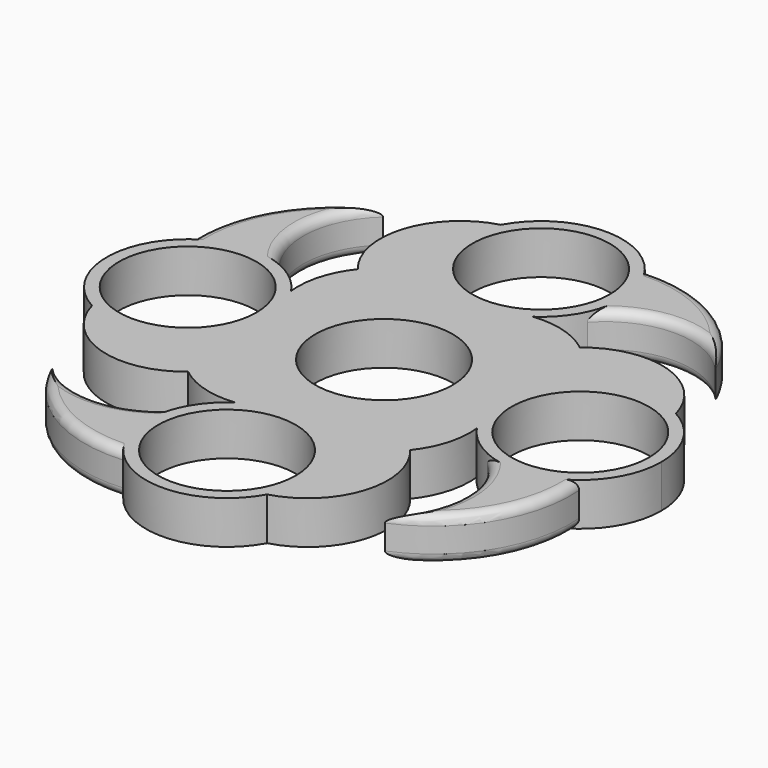
from build123d import *

# Parameters (mm, degrees)
F0_R     = 13.2
F0_R_2   = 11.2
F1_DEPTH = 7
F2_R     = 1.5


with BuildPart() as f1:
    # F0 (on Top) → F1 (new body)
    with BuildSketch(Plane.XY):
        with BuildLine():
            ThreePointArc((17.372666, 18.167843), (12.678437, 20.59346), (7.41467, 21.054055))
            ThreePointArc((7.41467, 21.054055), (-1.093616, 18.820181), (-9.11622, 22.428359))
            ThreePointArc((-9.11622, 22.428359), (-14.140854, 20.793596), (-18.167843, 17.372666))
            ThreePointArc((-18.167843, 17.372666), (-20.59346, 12.678437), (-21.054055, 7.41467))
            ThreePointArc((-21.054055, 7.41467), (-19.357474, 3.878541), (-18.7748, 0))
            ThreePointArc((-18.7748, 0), (-19.722188, -4.910549), (-22.428359, -9.11622))
            ThreePointArc((-22.428359, -9.11622), (-20.793596, -14.140854), (-17.372666, -18.167843))
            ThreePointArc((-17.372666, -18.167843), (-12.678437, -20.59346), (-7.41467, -21.054055))
            ThreePointArc((-7.41467, -21.054055), (1.093616, -18.820181), (9.11622, -22.428359))
            ThreePointArc((9.11622, -22.428359), (14.140854, -20.793596), (18.167843, -17.372666))
            ThreePointArc((18.167843, -17.372666), (20.59346, -12.678437), (21.054055, -7.41467))
            ThreePointArc((21.054055, -7.41467), (18.820181, 1.093616), (22.428359, 9.11622))
            ThreePointArc((22.428359, 9.11622), (20.793596, 14.140854), (17.372666, 18.167843))
        make_face()
        Circle(F0_R, mode=Mode.SUBTRACT)
        Circle(F0_R)
        Circle(F0_R_2, mode=Mode.SUBTRACT)
        with BuildLine():
            ThreePointArc((11.977401, 26.42666), (12.890727, 29.134175), (13.2, 31.9748))
            ThreePointArc((13.2, 31.9748), (12.479695, 36.275638), (10.397393, 40.107094))
            ThreePointArc((10.397393, 40.107094), (-1.087618, 45.129916), (-11.591787, 38.289107))
            ThreePointArc((-11.591787, 38.289107), (-13.042094, 29.939172), (-9.11622, 22.428359))
            ThreePointArc((-9.11622, 22.428359), (-1.093616, 18.820181), (7.41467, 21.054055))
            ThreePointArc((7.41467, 21.054055), (10.061279, 23.430172), (11.977401, 26.42666))
        make_face()
        with Locations((0, 31.9748)):
            Circle(F0_R_2, mode=Mode.SUBTRACT)
        with BuildLine():
            ThreePointArc((10.397393, 40.107094), (12.479695, 36.275638), (13.2, 31.9748))
            ThreePointArc((13.2, 31.9748), (12.890727, 29.134175), (11.977401, 26.42666))
            ThreePointArc((11.977401, 26.42666), (22.414109, 31.088755), (32.850817, 26.42666))
            ThreePointArc((32.850817, 26.42666), (23.834443, 36.894661), (10.397393, 40.107094))
        make_face()
        with BuildLine():
            ThreePointArc((-9.11622, 22.428359), (-13.042094, 29.939172), (-11.591787, 38.289107))
            ThreePointArc((-11.591787, 38.289107), (-20.576782, 29.621993), (-18.167843, 17.372666))
            ThreePointArc((-18.167843, 17.372666), (-14.140854, 20.793596), (-9.11622, 22.428359))
        make_face()
        with BuildLine():
            ThreePointArc((38.289107, 11.591787), (29.939172, 13.042094), (22.428359, 9.11622))
            ThreePointArc((22.428359, 9.11622), (18.820181, 1.093616), (21.054055, -7.41467))
            ThreePointArc((21.054055, -7.41467), (23.430172, -10.061279), (26.42666, -11.977401))
            ThreePointArc((26.42666, -11.977401), (33.489254, -13.112835), (40.107094, -10.397393))
            ThreePointArc((40.107094, -10.397393), (43.840429, -5.783326), (45.1748, 0))
            ThreePointArc((45.1748, 0), (43.323563, 6.741333), (38.289107, 11.591787))
        make_face()
        with Locations((31.9748, 0)):
            Circle(F0_R_2, mode=Mode.SUBTRACT)
        with BuildLine():
            ThreePointArc((38.289107, 11.591787), (29.621993, 20.576782), (17.372666, 18.167843))
            ThreePointArc((17.372666, 18.167843), (20.793596, 14.140854), (22.428359, 9.11622))
            ThreePointArc((22.428359, 9.11622), (29.939172, 13.042094), (38.289107, 11.591787))
        make_face()
        with BuildLine():
            ThreePointArc((40.107094, -10.397393), (33.489254, -13.112835), (26.42666, -11.977401))
            ThreePointArc((26.42666, -11.977401), (31.088755, -22.414109), (26.42666, -32.850817))
            ThreePointArc((26.42666, -32.850817), (36.894661, -23.834443), (40.107094, -10.397393))
        make_face()
        with BuildLine():
            ThreePointArc((11.591787, -38.289107), (20.576782, -29.621993), (18.167843, -17.372666))
            ThreePointArc((18.167843, -17.372666), (14.140854, -20.793596), (9.11622, -22.428359))
            ThreePointArc((9.11622, -22.428359), (12.136188, -26.783177), (13.2, -31.9748))
            ThreePointArc((13.2, -31.9748), (12.79163, -35.232745), (11.591787, -38.289107))
        make_face()
        with BuildLine():
            ThreePointArc((13.2, -31.9748), (12.136188, -26.783177), (9.11622, -22.428359))
            ThreePointArc((9.11622, -22.428359), (1.093616, -18.820181), (-7.41467, -21.054055))
            ThreePointArc((-7.41467, -21.054055), (-10.061279, -23.430172), (-11.977401, -26.42666))
            ThreePointArc((-11.977401, -26.42666), (-13.112835, -33.489254), (-10.397393, -40.107094))
            ThreePointArc((-10.397393, -40.107094), (1.087618, -45.129916), (11.591787, -38.289107))
            ThreePointArc((11.591787, -38.289107), (12.79163, -35.232745), (13.2, -31.9748))
        make_face()
        with Locations((0, -31.9748)):
            Circle(F0_R_2, mode=Mode.SUBTRACT)
        with BuildLine():
            ThreePointArc((-32.850817, -26.42666), (-23.834443, -36.894661), (-10.397393, -40.107094))
            ThreePointArc((-10.397393, -40.107094), (-13.112835, -33.489254), (-11.977401, -26.42666))
            ThreePointArc((-11.977401, -26.42666), (-22.414109, -31.088755), (-32.850817, -26.42666))
        make_face()
        with BuildLine():
            ThreePointArc((-17.372666, -18.167843), (-20.793596, -14.140854), (-22.428359, -9.11622))
            ThreePointArc((-22.428359, -9.11622), (-29.939172, -13.042094), (-38.289107, -11.591787))
            ThreePointArc((-38.289107, -11.591787), (-29.621993, -20.576782), (-17.372666, -18.167843))
        make_face()
        with BuildLine():
            ThreePointArc((-18.7748, 0), (-19.357474, 3.878541), (-21.054055, 7.41467))
            ThreePointArc((-21.054055, 7.41467), (-23.430172, 10.061279), (-26.42666, 11.977401))
            ThreePointArc((-26.42666, 11.977401), (-33.489254, 13.112835), (-40.107094, 10.397393))
            ThreePointArc((-40.107094, 10.397393), (-45.129916, -1.087618), (-38.289107, -11.591787))
            ThreePointArc((-38.289107, -11.591787), (-29.939172, -13.042094), (-22.428359, -9.11622))
            ThreePointArc((-22.428359, -9.11622), (-19.722188, -4.910549), (-18.7748, 0))
        make_face()
        with Locations((-31.9748, 0)):
            Circle(F0_R_2, mode=Mode.SUBTRACT)
        with BuildLine():
            ThreePointArc((-40.107094, 10.397393), (-33.489254, 13.112835), (-26.42666, 11.977401))
            ThreePointArc((-26.42666, 11.977401), (-31.088755, 22.414109), (-26.42666, 32.850817))
            ThreePointArc((-26.42666, 32.850817), (-36.894661, 23.834443), (-40.107094, 10.397393))
        make_face()
    extrude(amount=F1_DEPTH)

    # F2
    f2_edges = [f1.edges().sort_by_distance(p)[0] for p in [
        (-36.894661, 23.834443, 7),
        (23.834443, 36.894661, 7),
        (36.894661, -23.834443, 7),
        (-23.834443, -36.894661, 7),
        (31.088755, -22.414109, 7),
        (-22.414109, -31.088755, 7),
        (22.414109, 31.088755, 7),
        (-31.088755, 22.414109, 7),
        (36.894661, -23.834443, 0),
        (-22.414109, -31.088755, 0),
        (-23.834443, -36.894661, 0),
        (31.088755, -22.414109, 0),
        (23.834443, 36.894661, 0),
        (22.414109, 31.088755, 0),
        (-31.088755, 22.414109, 0),
        (-36.894661, 23.834443, 0),
    ]]
    fillet(f2_edges, radius=F2_R)


solid = f1.part
